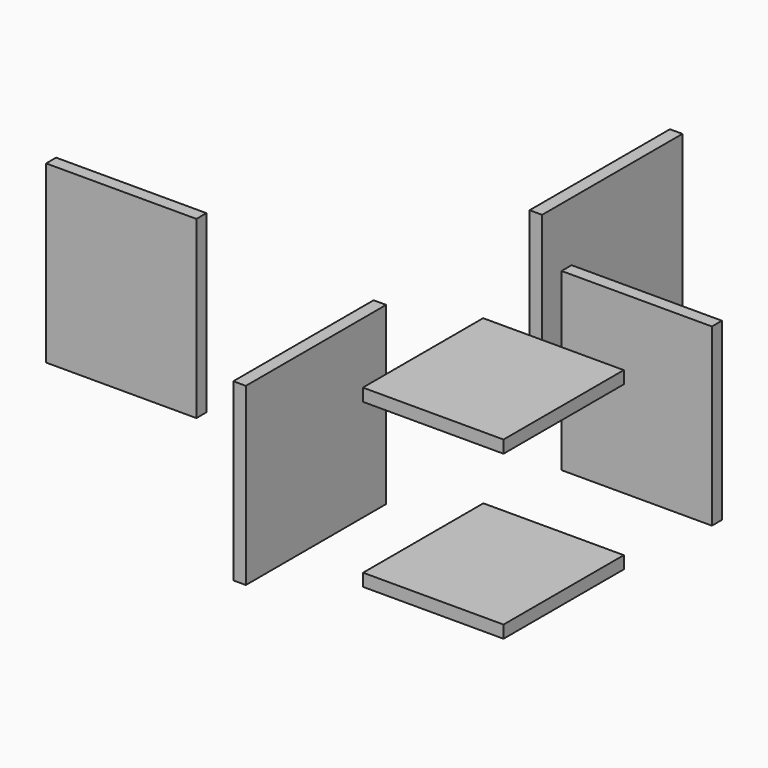
from build123d import *

# Parameters (mm, degrees)
F2_W      = 35.646983982
F2_H      = 38.1
F3_DEPTH  = 3.175
F0_W      = 35.5965135368
F0_H      = 38.1
F4_DEPTH  = 3.175
F5_W      = 38.1
F5_H      = 44.45
F6_DEPTH  = 3.175
F7_W      = 44.45
F7_H      = 44.45
F8_DEPTH  = 3.175
F9_W      = 38.1
F9_H      = 44.45
F10_DEPTH = 3.175


with BuildPart() as f3:
    # F2 (on offset) → F3 (new body)
    with BuildSketch(Plane.XY.offset(38.1)):
        with Locations((48.8022370264, -47.7876216173)):
            Rectangle(F2_W, F2_H)
    extrude(amount=F3_DEPTH)


with BuildPart() as f4:
    # F0 (on Top) → F4 (new body)
    with BuildSketch(Plane.XY):
        with Locations((48.8464357331, -47.8029837832)):
            Rectangle(F0_W, F0_H)
    extrude(amount=-F4_DEPTH)


with BuildPart() as f6:
    # F5 (on Front) → F6 (new body)
    with BuildSketch(Plane.XZ):
        with Locations((49.4625122527, 19.0064050257)):
            Rectangle(F5_W, F5_H)
    extrude(amount=F6_DEPTH)


with BuildPart() as f8:
    # F7 (on Right) → F8 (new body)
    with BuildSketch(Plane.YZ):
        with Locations((-46.9369307002, 11.3389967009)):
            Rectangle(F7_W, F7_H)
    extrude(amount=F8_DEPTH)


with BuildPart() as f10:
    # F9 (on Front) → F10 (new body)
    with BuildSketch(Plane.XZ):
        with Locations((-81.197341904, 0.5202181637)):
            Rectangle(F9_W, F9_H)
    extrude(amount=F10_DEPTH)


with BuildPart() as f11_1:
    # F11: instance of F8
    add(f8.part.mirror(Plane.XZ))


solid = Compound([f3.part, f4.part, f6.part, f8.part, f10.part, f11_1.part])
